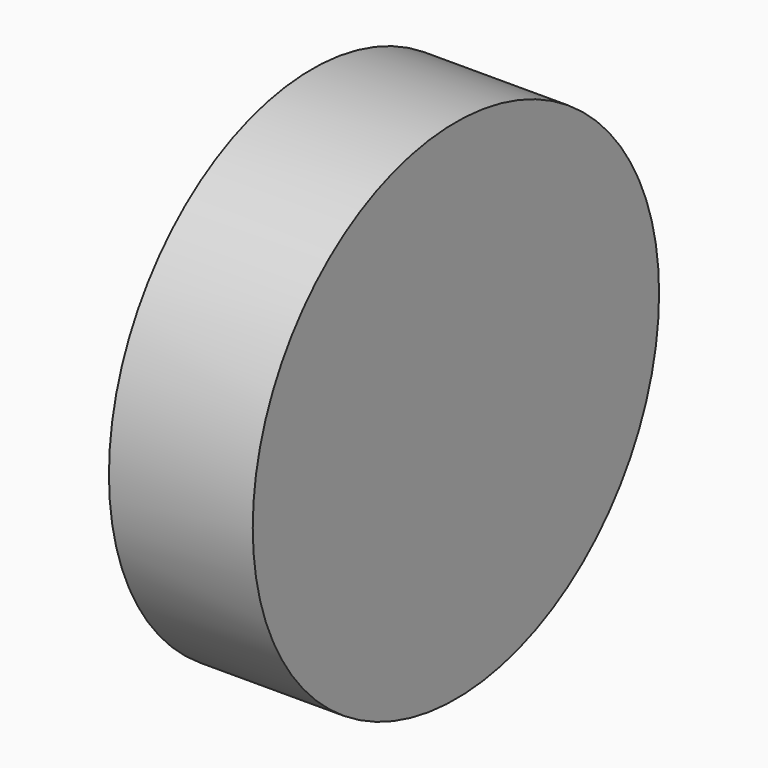
from build123d import *

# Parameters (mm, degrees)
F0_R      = 88.300402
F1_DEPTH  = 25
F1_FACE_R = 88.300402
F2_DEPTH  = 25


with BuildPart() as f1:
    # F0 (on Right) → F1 (new body)
    with BuildSketch(Plane.YZ):
        with Locations((26.96918, 49.192473)):
            Circle(F0_R)
    extrude(amount=F1_DEPTH)

    # F1_face (on face) → F2 (join)
    with BuildSketch(Plane(origin=(25, 26.96918, 49.192473), x_dir=(0, 1, 0), z_dir=(1, 0, 0))):
        Circle(F1_FACE_R)
    extrude(amount=F2_DEPTH)


solid = f1.part
